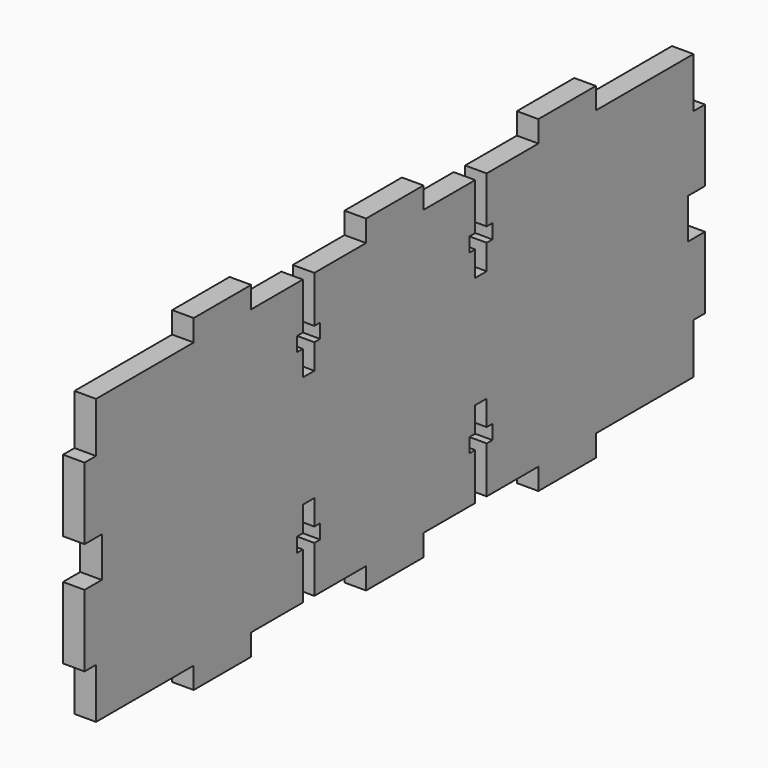
from build123d import *

# Parameters (mm, degrees)
F1_DEPTH = 3


with BuildPart() as f1:
    # F0 (on Right) → F1 (new body)
    with BuildSketch(Plane.YZ):
        Polygon((16.734551, 18.750591), (16.734551, 22.250591), (15.734551, 22.250591), (15.734551, 24.250591), (16.734551, 24.250591), (16.734551, 30.750591), (7.734551, 30.750591), (7.734551, 33.750591), (2.734551, 33.750591), (-2.265449, 33.750591), (-2.265449, 30.750591), (-11.265449, 30.750591), (-11.265449, 24.250591), (-10.265449, 24.250591), (-10.265449, 22.250591), (-11.265449, 22.250591), (-11.265449, 18.750591), (-13.265449, 18.750591), (-13.265449, 22.250591), (-14.265449, 22.250591), (-14.265449, 24.250591), (-13.265449, 24.250591), (-13.265449, 30.750591), (-22.265449, 30.750591), (-22.265449, 33.750591), (-32.265449, 33.750591), (-32.265449, 30.750591), (-49.265449, 30.750591), (-49.265449, 23.750591), (-51.265449, 23.750591), (-51.265449, 13.750591), (-48.265449, 13.750591), (-48.265449, 10.950591), (-48.265449, 8.150591), (-51.265449, 8.150591), (-51.265449, -1.849409), (-49.265449, -1.849409), (-49.265449, -8.849409), (-32.265449, -8.849409), (-32.265449, -11.849409), (-22.265449, -11.849409), (-22.265449, -8.849409), (-13.265449, -8.849409), (-13.265449, -2.349409), (-14.265449, -2.349409), (-14.265449, -0.349409), (-13.265449, -0.349409), (-13.265449, 3.150591), (-11.265449, 3.150591), (-11.265449, -0.349409), (-10.265449, -0.349409), (-10.265449, -2.349409), (-11.265449, -2.349409), (-11.265449, -8.849409), (-2.265449, -8.849409), (-2.265449, -11.849409), (2.734551, -11.849409), (7.734551, -11.849409), (7.734551, -8.849409), (16.734551, -8.849409), (16.734551, -2.349409), (15.734551, -2.349409), (15.734551, -0.349409), (16.734551, -0.349409), (16.734551, 3.150591), (18.734551, 3.150591), (18.734551, -0.349409), (19.734551, -0.349409), (19.734551, -2.349409), (18.734551, -2.349409), (18.734551, -8.849409), (27.734551, -8.849409), (27.734551, -11.849409), (37.734551, -11.849409), (37.734551, -8.849409), (54.734551, -8.849409), (54.734551, -1.849409), (56.734551, -1.849409), (56.734551, 8.150591), (53.734551, 8.150591), (53.734551, 10.950591), (53.734551, 13.750591), (56.734551, 13.750591), (56.734551, 23.750591), (54.734551, 23.750591), (54.734551, 30.750591), (37.734551, 30.750591), (37.734551, 33.750591), (27.734551, 33.750591), (27.734551, 30.750591), (18.734551, 30.750591), (18.734551, 24.250591), (19.734551, 24.250591), (19.734551, 22.250591), (18.734551, 22.250591), (18.734551, 18.750591), align=None)
    extrude(amount=F1_DEPTH)


solid = f1.part
